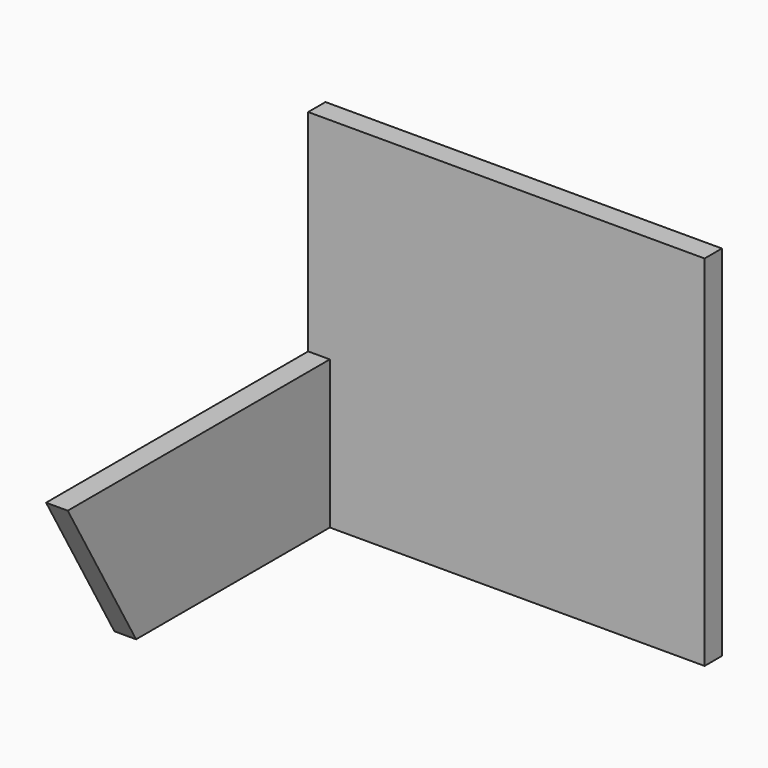
from build123d import *

# Parameters (mm, degrees)
PAD_DEPTH         = 2
SKETCH001_W       = 2
SKETCH001_H       = 33.12
PAD001_DEPTH      = 34.6
PAD001_DEPTH_BACK = 2


with BuildPart() as part:
    # Sketch → Pad (new body)
    with BuildSketch(Plane.YZ):
        Polygon((-23.355, 0), (24.355, 0), (24.355, 13.665881), (-31.245, 13.665881), align=None)
    extrude(amount=PAD_DEPTH)

    # Sketch001 (on Face6 of Pad) → Pad001 (join, two sides)
    with BuildSketch(Plane.YZ.offset(2)) as pad001_sk:
        with Locations((0, 16.56)):
            Rectangle(SKETCH001_W, SKETCH001_H)
    extrude(amount=PAD001_DEPTH)
    extrude(pad001_sk.sketch, amount=-PAD001_DEPTH_BACK)


solid = part.part
